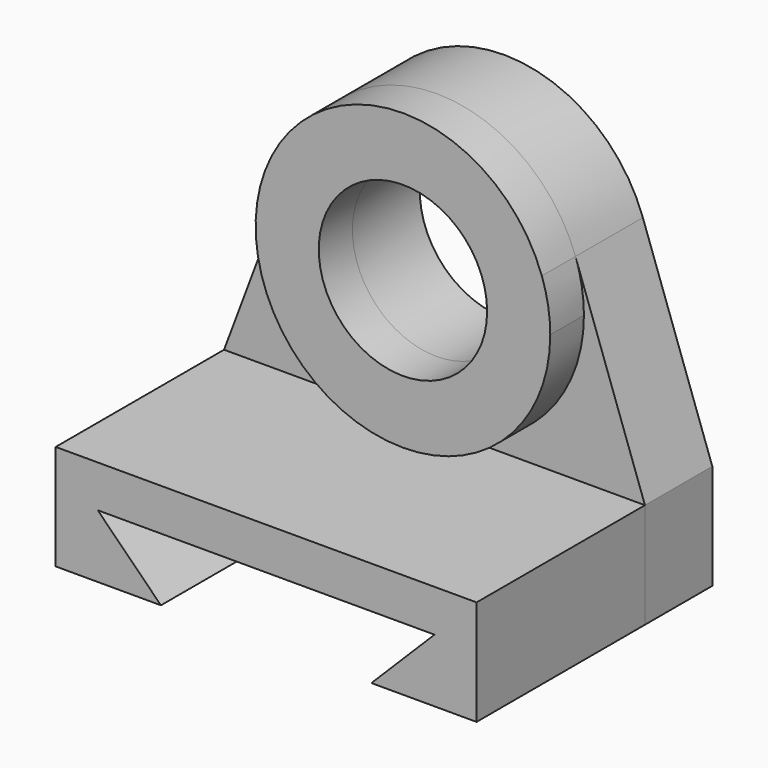
from build123d import *

# Parameters (mm, degrees)
F1_DEPTH = 127
F0_R     = 50.8
F2_DEPTH = 25.4
F3_DEPTH = 50.8


with BuildPart() as f1:
    # F0 (on Front) → F1 (new body)
    with BuildSketch(Plane.XZ):
        Polygon((128.269819, 0), (0, 0), (0, -63.5), (63.5, -63.5), (25.4, -25.4), (228.6, -25.4), (190.5, -63.5), (254, -63.5), (254, 0), align=None)
    extrude(amount=F1_DEPTH)

    # F0 (on Front) → F2 (join)
    with BuildSketch(Plane.XZ):
        with BuildLine():
            ThreePointArc((45.027212, 120.107022), (55.20302, 38.259573), (128.269819, 0))
            ThreePointArc((128.269819, 0), (191.131612, 26.038207), (217.169819, 88.9))
            ThreePointArc((217.169819, 88.9), (215.88916, 103.935332), (212.084078, 118.537478))
            ThreePointArc((212.084078, 118.537478), (129.105022, 177.796077), (45.027212, 120.107022))
        make_face()
        with Locations((128.269819, 88.9)):
            Circle(F0_R, mode=Mode.SUBTRACT)
    extrude(amount=F2_DEPTH)


with BuildPart() as f3:
    # F0 (on Front) → F3 (new body)
    with BuildSketch(Plane.XZ):
        with BuildLine():
            Line((45.027212, 120.107022), (0, 0))
            Line((0, 0), (128.269819, 0))
            ThreePointArc((128.269819, 0), (55.20302, 38.259573), (45.027212, 120.107022))
        make_face()
        with BuildLine():
            ThreePointArc((217.169819, 88.9), (191.131612, 26.038207), (128.269819, 0))
            Line((128.269819, 0), (254, 0))
            Line((254, 0), (212.084078, 118.537478))
            ThreePointArc((212.084078, 118.537478), (215.88916, 103.935332), (217.169819, 88.9))
        make_face()
        with BuildLine():
            ThreePointArc((45.027212, 120.107022), (55.20302, 38.259573), (128.269819, 0))
            ThreePointArc((128.269819, 0), (191.131612, 26.038207), (217.169819, 88.9))
            ThreePointArc((217.169819, 88.9), (215.88916, 103.935332), (212.084078, 118.537478))
            ThreePointArc((212.084078, 118.537478), (129.105022, 177.796077), (45.027212, 120.107022))
        make_face()
        with Locations((128.269819, 88.9)):
            Circle(F0_R, mode=Mode.SUBTRACT)
        Polygon((128.269819, 0), (0, 0), (0, -63.5), (63.5, -63.5), (25.4, -25.4), (228.6, -25.4), (190.5, -63.5), (254, -63.5), (254, 0), align=None)
    extrude(amount=-F3_DEPTH)


solid = Compound([f1.part, f3.part])
